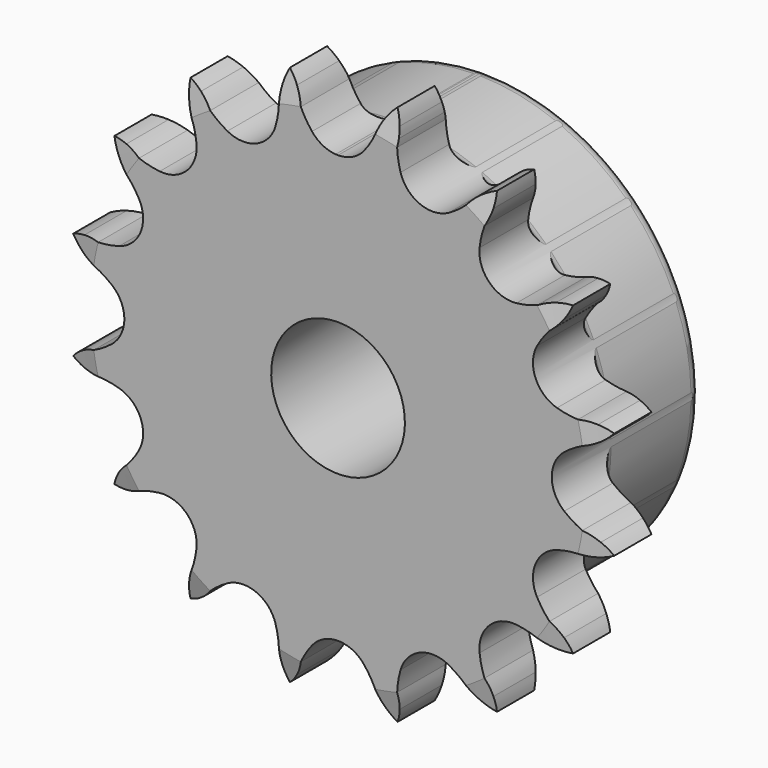
from build123d import *

# Parameters (mm, degrees)
F0_W     = 15.0114
F0_H     = 17.4625
F0_W_2   = 7.2136
F0_H_2   = 10.287
F2_R     = 1.5875
F3_SIZE2 = 6.35
F3_SIZE  = 1.5748
F5_DEPTH = 22.226


with BuildPart() as f1:
    # F0 (on Right) → F1 (revolve)
    with BuildSketch(Plane.YZ):
        with Locations((14.7193, 16.66875)):
            Rectangle(F0_W, F0_H)
        with Locations((3.6068, 16.66875)):
            Rectangle(F0_W_2, F0_H)
        with Locations((3.6068, 30.5435)):
            Rectangle(F0_W_2, F0_H_2)
    revolve(axis=Axis((0, 12.8209507779, 0), (0, 1, 0)))

    # F2
    f2_edges = [f1.edges().sort_by_distance(p)[0] for p in [
        (0, 22.225, -25.4),
        (0, 7.2136, -25.4),
        (0, 14.7193, 25.4),
    ]]
    fillet(f2_edges, radius=F2_R)

    # F3
    f3_edges = [f1.edges().sort_by_distance(p)[0] for p in [
        (0, 0, -35.687),
        (0, 7.2136, -35.687),
    ]]
    f3_side = f1.faces().sort_by_distance((0, 3.6068, -35.687))[0]
    chamfer(f3_edges, length=F3_SIZE, length2=F3_SIZE2, reference=f3_side)

    # F4 (on face) → F5 (intersect, through all)
    with BuildSketch(Plane.XZ):
        with BuildLine():
            ThreePointArc((3.0902142758, 26.8568408338), (1.7136556072, 25.7643261806), (0, 25.3746))
            ThreePointArc((0, 25.3746), (-0.1412655744, 25.3771189668), (-0.2823515389, 25.3846726643))
            ThreePointArc((-0.2823515389, 25.3846726643), (-0.2827755363, 25.3847029772), (-0.2831995304, 25.3847333357))
            ThreePointArc((-0.2831995304, 25.3847333357), (-1.840313913, 25.8278892207), (-3.0902142758, 26.8568408338))
            ThreePointArc((-3.0902142758, 26.8568408338), (-3.8197981403, 27.8890400956), (-4.4182906897, 29.0023839776))
            ThreePointArc((-4.4182906897, 29.0023839776), (-5.723364777, 28.7732977712), (-7.0167635104, 28.4855155972))
            ThreePointArc((-7.0167635104, 28.4855155972), (-7.143640269, 27.2278867889), (-7.4226823123, 25.9950593601))
            ThreePointArc((-7.4226823123, 25.9950593601), (-9.7104390229, 23.4430735857), (-13.1326537533, 23.6299117485))
            ThreePointArc((-13.1326537533, 23.6299117485), (-14.2017069093, 24.3043398624), (-15.1807001842, 25.1039023046))
            ThreePointArc((-15.1807001842, 25.1039023046), (-16.2987639261, 24.3928240161), (-17.3835790732, 23.631985689))
            ThreePointArc((-17.3835790732, 23.631985689), (-17.0195242046, 22.4215345401), (-16.8055428051, 21.1757657446))
            ThreePointArc((-16.8055428051, 21.1757657446), (-17.9425517299, 17.9425517299), (-21.1757657446, 16.8055428051))
            ThreePointArc((-21.1757657446, 16.8055428051), (-22.4215345401, 17.0195242046), (-23.631985689, 17.3835790732))
            ThreePointArc((-23.631985689, 17.3835790732), (-24.3928240161, 16.2987639261), (-25.1039023046, 15.1807001842))
            ThreePointArc((-25.1039023046, 15.1807001842), (-24.3043398624, 14.2017069093), (-23.6299117485, 13.1326537533))
            ThreePointArc((-23.6299117485, 13.1326537533), (-23.4430735857, 9.7104390229), (-25.9950593601, 7.4226823123))
            ThreePointArc((-25.9950593601, 7.4226823123), (-27.2278867889, 7.143640269), (-28.4855155972, 7.0167635104))
            ThreePointArc((-28.4855155972, 7.0167635104), (-28.7732977712, 5.723364777), (-29.0023839776, 4.4182906897))
            ThreePointArc((-29.0023839776, 4.4182906897), (-27.8890400956, 3.8197981403), (-26.8568408338, 3.0902142758))
            ThreePointArc((-26.8568408338, 3.0902142758), (-25.3746, 0), (-26.8568408338, -3.0902142758))
            ThreePointArc((-26.8568408338, -3.0902142758), (-27.8890400956, -3.8197981403), (-29.0023839776, -4.4182906897))
            ThreePointArc((-29.0023839776, -4.4182906897), (-28.7732977712, -5.723364777), (-28.4855155972, -7.0167635104))
            ThreePointArc((-28.4855155972, -7.0167635104), (-27.2278867889, -7.143640269), (-25.9950593601, -7.4226823123))
            ThreePointArc((-25.9950593601, -7.4226823123), (-23.4430735857, -9.7104390229), (-23.6299117485, -13.1326537533))
            ThreePointArc((-23.6299117485, -13.1326537533), (-24.3043398624, -14.2017069093), (-25.1039023046, -15.1807001842))
            ThreePointArc((-25.1039023046, -15.1807001842), (-24.3928240161, -16.2987639261), (-23.631985689, -17.3835790732))
            ThreePointArc((-23.631985689, -17.3835790732), (-22.4215345401, -17.0195242046), (-21.1757657446, -16.8055428051))
            ThreePointArc((-21.1757657446, -16.8055428051), (-17.9425517299, -17.9425517299), (-16.8055428051, -21.1757657446))
            ThreePointArc((-16.8055428051, -21.1757657446), (-17.0195242046, -22.4215345401), (-17.3835790732, -23.631985689))
            ThreePointArc((-17.3835790732, -23.631985689), (-16.2987639261, -24.3928240161), (-15.1807001842, -25.1039023046))
            ThreePointArc((-15.1807001842, -25.1039023046), (-14.2017069093, -24.3043398624), (-13.1326537533, -23.6299117485))
            ThreePointArc((-13.1326537533, -23.6299117485), (-9.7104390229, -23.4430735857), (-7.4226823123, -25.9950593601))
            ThreePointArc((-7.4226823123, -25.9950593601), (-7.143640269, -27.2278867889), (-7.0167635104, -28.4855155972))
            ThreePointArc((-7.0167635104, -28.4855155972), (-5.723364777, -28.7732977712), (-4.4182906897, -29.0023839776))
            ThreePointArc((-4.4182906897, -29.0023839776), (-3.8197981403, -27.8890400956), (-3.0902142758, -26.8568408338))
            ThreePointArc((-3.0902142758, -26.8568408338), (0, -25.3746), (3.0902142758, -26.8568408338))
            ThreePointArc((3.0902142758, -26.8568408338), (3.8197981403, -27.8890400956), (4.4182906897, -29.0023839776))
            ThreePointArc((4.4182906897, -29.0023839776), (5.723364777, -28.7732977712), (7.0167635104, -28.4855155972))
            ThreePointArc((7.0167635104, -28.4855155972), (7.143640269, -27.2278867889), (7.4226823123, -25.9950593601))
            ThreePointArc((7.4226823123, -25.9950593601), (9.7104390229, -23.4430735857), (13.1326537533, -23.6299117485))
            ThreePointArc((13.1326537533, -23.6299117485), (14.2017069093, -24.3043398624), (15.1807001842, -25.1039023046))
            ThreePointArc((15.1807001842, -25.1039023046), (16.2987639261, -24.3928240161), (17.3835790732, -23.631985689))
            ThreePointArc((17.3835790732, -23.631985689), (17.0195242046, -22.4215345401), (16.8055428051, -21.1757657446))
            ThreePointArc((16.8055428051, -21.1757657446), (17.9425517299, -17.9425517299), (21.1757657446, -16.8055428051))
            ThreePointArc((21.1757657446, -16.8055428051), (22.4215345401, -17.0195242046), (23.631985689, -17.3835790732))
            ThreePointArc((23.631985689, -17.3835790732), (24.3928240161, -16.2987639261), (25.1039023046, -15.1807001842))
            ThreePointArc((25.1039023046, -15.1807001842), (24.3043398624, -14.2017069093), (23.6299117485, -13.1326537533))
            ThreePointArc((23.6299117485, -13.1326537533), (23.4430735857, -9.7104390229), (25.9950593601, -7.4226823123))
            ThreePointArc((25.9950593601, -7.4226823123), (27.2278867889, -7.143640269), (28.4855155972, -7.0167635104))
            ThreePointArc((28.4855155972, -7.0167635104), (28.7732977712, -5.723364777), (29.0023839776, -4.4182906897))
            ThreePointArc((29.0023839776, -4.4182906897), (27.8890400956, -3.8197981403), (26.8568408338, -3.0902142758))
            ThreePointArc((26.8568408338, -3.0902142758), (25.3746, 0), (26.8568408338, 3.0902142758))
            ThreePointArc((26.8568408338, 3.0902142758), (27.8890400956, 3.8197981403), (29.0023839776, 4.4182906897))
            ThreePointArc((29.0023839776, 4.4182906897), (28.7732977712, 5.723364777), (28.4855155972, 7.0167635104))
            ThreePointArc((28.4855155972, 7.0167635104), (27.2278867889, 7.143640269), (25.9950593601, 7.4226823123))
            ThreePointArc((25.9950593601, 7.4226823123), (23.4430735857, 9.7104390229), (23.6299117485, 13.1326537533))
            ThreePointArc((23.6299117485, 13.1326537533), (24.3043398624, 14.2017069093), (25.1039023046, 15.1807001842))
            ThreePointArc((25.1039023046, 15.1807001842), (24.3928240161, 16.2987639261), (23.631985689, 17.3835790732))
            ThreePointArc((23.631985689, 17.3835790732), (22.4215345401, 17.0195242046), (21.1757657446, 16.8055428051))
            ThreePointArc((21.1757657446, 16.8055428051), (17.9425517299, 17.9425517299), (16.8055428051, 21.1757657446))
            ThreePointArc((16.8055428051, 21.1757657446), (17.0195242046, 22.4215345401), (17.3835790732, 23.631985689))
            ThreePointArc((17.3835790732, 23.631985689), (16.2987639261, 24.3928240161), (15.1807001842, 25.1039023046))
            ThreePointArc((15.1807001842, 25.1039023046), (14.2017069093, 24.3043398624), (13.1326537533, 23.6299117485))
            ThreePointArc((13.1326537533, 23.6299117485), (9.7104390229, 23.4430735857), (7.4226823123, 25.9950593601))
            ThreePointArc((7.4226823123, 25.9950593601), (7.143640269, 27.2278867889), (7.0167635104, 28.4855155972))
            ThreePointArc((7.0167635104, 28.4855155972), (5.723364777, 28.7732977712), (4.4182906897, 29.0023839776))
            ThreePointArc((4.4182906897, 29.0023839776), (3.8197981403, 27.8890400956), (3.0902142758, 26.8568408338))
        make_face()
        with BuildLine():
            ThreePointArc((7.9375, 0), (-5.6126600757, -5.6126600757), (0, 7.9375))
            ThreePointArc((0, 7.9375), (5.6126600757, 5.6126600757), (7.9375, 0))
        make_face(mode=Mode.SUBTRACT)
        with BuildLine():
            ThreePointArc((7.9375, 0), (5.6126600757, 5.6126600757), (0, 7.9375))
            ThreePointArc((0, 7.9375), (-5.6126600757, -5.6126600757), (7.9375, 0))
        make_face()
        with BuildLine():
            ThreePointArc((-7.0167635104, 28.4855155972), (-5.723364777, 28.7732977712), (-4.4182906897, 29.0023839776))
            ThreePointArc((-4.4182906897, 29.0023839776), (-4.7669295174, 29.9390208386), (-5.2531712668, 30.8121798177))
            ThreePointArc((-5.2531712668, 30.8121798177), (-5.7778921065, 31.5026633006), (-6.3887232409, 32.1182806534))
            ThreePointArc((-6.3887232409, 32.1182806534), (-6.7174710623, 31.3157694262), (-6.9380133171, 30.4770438968))
            ThreePointArc((-6.9380133171, 30.4770438968), (-7.0530986421, 29.4842735257), (-7.0167635104, 28.4855155972))
        make_face()
        with BuildLine():
            ThreePointArc((-17.3835790732, 23.631985689), (-16.2987639261, 24.3928240161), (-15.1807001842, 25.1039023046))
            ThreePointArc((-15.1807001842, 25.1039023046), (-15.8612358702, 25.8358236266), (-16.6446081454, 26.4564406744))
            ThreePointArc((-16.6446081454, 26.4564406744), (-17.3936235787, 26.8935622599), (-18.1935445233, 27.2285635768))
            ThreePointArc((-18.1935445233, 27.2285635768), (-18.1901601559, 26.3613335348), (-18.0729482667, 25.5020543177))
            ThreePointArc((-18.0729482667, 25.5020543177), (-17.7993564699, 24.5408128442), (-17.3835790732, 23.631985689))
        make_face()
        with BuildLine():
            ThreePointArc((-25.1039023046, 15.1807001842), (-24.3928240161, 16.2987639261), (-23.631985689, 17.3835790732))
            ThreePointArc((-23.631985689, 17.3835790732), (-24.5408128442, 17.7993564699), (-25.5020543177, 18.0729482667))
            ThreePointArc((-25.5020543177, 18.0729482667), (-26.3613335348, 18.1901601559), (-27.2285635768, 18.1935445233))
            ThreePointArc((-27.2285635768, 18.1935445233), (-26.8935622599, 17.3936235787), (-26.4564406744, 16.6446081454))
            ThreePointArc((-26.4564406744, 16.6446081454), (-25.8358236266, 15.8612358702), (-25.1039023046, 15.1807001842))
        make_face()
        with BuildLine():
            ThreePointArc((-29.0023839776, 4.4182906897), (-28.7732977712, 5.723364777), (-28.4855155972, 7.0167635104))
            ThreePointArc((-28.4855155972, 7.0167635104), (-29.4842735257, 7.0530986421), (-30.4770438968, 6.9380133171))
            ThreePointArc((-30.4770438968, 6.9380133171), (-31.3157694262, 6.7174710623), (-32.1182806534, 6.3887232409))
            ThreePointArc((-32.1182806534, 6.3887232409), (-31.5026633006, 5.7778921065), (-30.8121798177, 5.2531712668))
            ThreePointArc((-30.8121798177, 5.2531712668), (-29.9390208386, 4.7669295174), (-29.0023839776, 4.4182906897))
        make_face()
        with BuildLine():
            ThreePointArc((-28.4855155972, -7.0167635104), (-28.7732977712, -5.723364777), (-29.0023839776, -4.4182906897))
            ThreePointArc((-29.0023839776, -4.4182906897), (-29.9390208386, -4.7669295174), (-30.8121798177, -5.2531712668))
            ThreePointArc((-30.8121798177, -5.2531712668), (-31.5026633006, -5.7778921065), (-32.1182806534, -6.3887232409))
            ThreePointArc((-32.1182806534, -6.3887232409), (-31.3157694262, -6.7174710623), (-30.4770438968, -6.9380133171))
            ThreePointArc((-30.4770438968, -6.9380133171), (-29.4842735257, -7.0530986421), (-28.4855155972, -7.0167635104))
        make_face()
        with BuildLine():
            ThreePointArc((-23.631985689, -17.3835790732), (-24.3928240161, -16.2987639261), (-25.1039023046, -15.1807001842))
            ThreePointArc((-25.1039023046, -15.1807001842), (-25.8358236266, -15.8612358702), (-26.4564406744, -16.6446081454))
            ThreePointArc((-26.4564406744, -16.6446081454), (-26.8935622599, -17.3936235787), (-27.2285635768, -18.1935445233))
            ThreePointArc((-27.2285635768, -18.1935445233), (-26.3613335348, -18.1901601559), (-25.5020543177, -18.0729482667))
            ThreePointArc((-25.5020543177, -18.0729482667), (-24.5408128442, -17.7993564699), (-23.631985689, -17.3835790732))
        make_face()
        with BuildLine():
            ThreePointArc((-15.1807001842, -25.1039023046), (-16.2987639261, -24.3928240161), (-17.3835790732, -23.631985689))
            ThreePointArc((-17.3835790732, -23.631985689), (-17.7993564699, -24.5408128442), (-18.0729482667, -25.5020543177))
            ThreePointArc((-18.0729482667, -25.5020543177), (-18.1901601559, -26.3613335348), (-18.1935445233, -27.2285635768))
            ThreePointArc((-18.1935445233, -27.2285635768), (-17.3936235787, -26.8935622599), (-16.6446081454, -26.4564406744))
            ThreePointArc((-16.6446081454, -26.4564406744), (-15.8612358702, -25.8358236266), (-15.1807001842, -25.1039023046))
        make_face()
        with BuildLine():
            ThreePointArc((-4.4182906897, -29.0023839776), (-5.723364777, -28.7732977712), (-7.0167635104, -28.4855155972))
            ThreePointArc((-7.0167635104, -28.4855155972), (-7.0530986421, -29.4842735257), (-6.9380133171, -30.4770438968))
            ThreePointArc((-6.9380133171, -30.4770438968), (-6.7174710623, -31.3157694262), (-6.3887232409, -32.1182806534))
            ThreePointArc((-6.3887232409, -32.1182806534), (-5.7778921065, -31.5026633006), (-5.2531712668, -30.8121798177))
            ThreePointArc((-5.2531712668, -30.8121798177), (-4.7669295174, -29.9390208386), (-4.4182906897, -29.0023839776))
        make_face()
        with BuildLine():
            ThreePointArc((6.9380133171, -30.4770438968), (7.0530986421, -29.4842735257), (7.0167635104, -28.4855155972))
            ThreePointArc((7.0167635104, -28.4855155972), (5.723364777, -28.7732977712), (4.4182906897, -29.0023839776))
            ThreePointArc((4.4182906897, -29.0023839776), (4.7669295174, -29.9390208386), (5.2531712668, -30.8121798177))
            ThreePointArc((5.2531712668, -30.8121798177), (5.7778921065, -31.5026633006), (6.3887232409, -32.1182806534))
            ThreePointArc((6.3887232409, -32.1182806534), (6.7174710623, -31.3157694262), (6.9380133171, -30.4770438968))
        make_face()
        with BuildLine():
            ThreePointArc((18.0729482667, -25.5020543177), (17.7993564699, -24.5408128442), (17.3835790732, -23.631985689))
            ThreePointArc((17.3835790732, -23.631985689), (16.2987639261, -24.3928240161), (15.1807001842, -25.1039023046))
            ThreePointArc((15.1807001842, -25.1039023046), (15.8612358702, -25.8358236266), (16.6446081454, -26.4564406744))
            ThreePointArc((16.6446081454, -26.4564406744), (17.3936235787, -26.8935622599), (18.1935445233, -27.2285635768))
            ThreePointArc((18.1935445233, -27.2285635768), (18.1901601559, -26.3613335348), (18.0729482667, -25.5020543177))
        make_face()
        with BuildLine():
            ThreePointArc((26.4564406744, -16.6446081454), (25.8358236266, -15.8612358702), (25.1039023046, -15.1807001842))
            ThreePointArc((25.1039023046, -15.1807001842), (24.3928240161, -16.2987639261), (23.631985689, -17.3835790732))
            ThreePointArc((23.631985689, -17.3835790732), (24.5408128442, -17.7993564699), (25.5020543177, -18.0729482667))
            ThreePointArc((25.5020543177, -18.0729482667), (26.3613335348, -18.1901601559), (27.2285635768, -18.1935445233))
            ThreePointArc((27.2285635768, -18.1935445233), (26.8935622599, -17.3936235787), (26.4564406744, -16.6446081454))
        make_face()
        with BuildLine():
            ThreePointArc((30.8121798177, -5.2531712668), (29.9390208386, -4.7669295174), (29.0023839776, -4.4182906897))
            ThreePointArc((29.0023839776, -4.4182906897), (28.7732977712, -5.723364777), (28.4855155972, -7.0167635104))
            ThreePointArc((28.4855155972, -7.0167635104), (29.4842735257, -7.0530986421), (30.4770438968, -6.9380133171))
            ThreePointArc((30.4770438968, -6.9380133171), (31.3157694262, -6.7174710623), (32.1182806534, -6.3887232409))
            ThreePointArc((32.1182806534, -6.3887232409), (31.5026633006, -5.7778921065), (30.8121798177, -5.2531712668))
        make_face()
        with BuildLine():
            ThreePointArc((30.4770438968, 6.9380133171), (29.4842735257, 7.0530986421), (28.4855155972, 7.0167635104))
            ThreePointArc((28.4855155972, 7.0167635104), (28.7732977712, 5.723364777), (29.0023839776, 4.4182906897))
            ThreePointArc((29.0023839776, 4.4182906897), (29.9390208386, 4.7669295174), (30.8121798177, 5.2531712668))
            ThreePointArc((30.8121798177, 5.2531712668), (31.5026633006, 5.7778921065), (32.1182806534, 6.3887232409))
            ThreePointArc((32.1182806534, 6.3887232409), (31.3157694262, 6.7174710623), (30.4770438968, 6.9380133171))
        make_face()
        with BuildLine():
            ThreePointArc((25.5020543177, 18.0729482667), (24.5408128442, 17.7993564699), (23.631985689, 17.3835790732))
            ThreePointArc((23.631985689, 17.3835790732), (24.3928240161, 16.2987639261), (25.1039023046, 15.1807001842))
            ThreePointArc((25.1039023046, 15.1807001842), (25.8358236266, 15.8612358702), (26.4564406744, 16.6446081454))
            ThreePointArc((26.4564406744, 16.6446081454), (26.8935622599, 17.3936235787), (27.2285635768, 18.1935445233))
            ThreePointArc((27.2285635768, 18.1935445233), (26.3613335348, 18.1901601559), (25.5020543177, 18.0729482667))
        make_face()
        with BuildLine():
            ThreePointArc((16.6446081454, 26.4564406744), (15.8612358702, 25.8358236266), (15.1807001842, 25.1039023046))
            ThreePointArc((15.1807001842, 25.1039023046), (16.2987639261, 24.3928240161), (17.3835790732, 23.631985689))
            ThreePointArc((17.3835790732, 23.631985689), (17.7993564699, 24.5408128442), (18.0729482667, 25.5020543177))
            ThreePointArc((18.0729482667, 25.5020543177), (18.1901601559, 26.3613335348), (18.1935445233, 27.2285635768))
            ThreePointArc((18.1935445233, 27.2285635768), (17.3936235787, 26.8935622599), (16.6446081454, 26.4564406744))
        make_face()
        with BuildLine():
            ThreePointArc((5.2531712668, 30.8121798177), (4.8425747327, 30.0974193823), (4.524401263, 29.337))
            Line((4.524401263, 29.337), (7.0572742976, 29.337))
            ThreePointArc((7.0572742976, 29.337), (7.0224733518, 29.9096193886), (6.9380133171, 30.4770438968))
            ThreePointArc((6.9380133171, 30.4770438968), (6.7174710623, 31.3157694262), (6.3887232409, 32.1182806534))
            ThreePointArc((6.3887232409, 32.1182806534), (5.7778921065, 31.5026633006), (5.2531712668, 30.8121798177))
        make_face()
        with BuildLine():
            Line((7.0572742976, 29.337), (4.524401263, 29.337))
            ThreePointArc((4.524401263, 29.337), (4.4691179711, 29.1703985148), (4.4182906897, 29.0023839776))
            ThreePointArc((4.4182906897, 29.0023839776), (5.723364777, 28.7732977712), (7.0167635104, 28.4855155972))
            ThreePointArc((7.0167635104, 28.4855155972), (7.0507985484, 28.9106022091), (7.0572742976, 29.337))
        make_face()
    extrude(amount=-F5_DEPTH, mode=Mode.INTERSECT)


solid = f1.part
